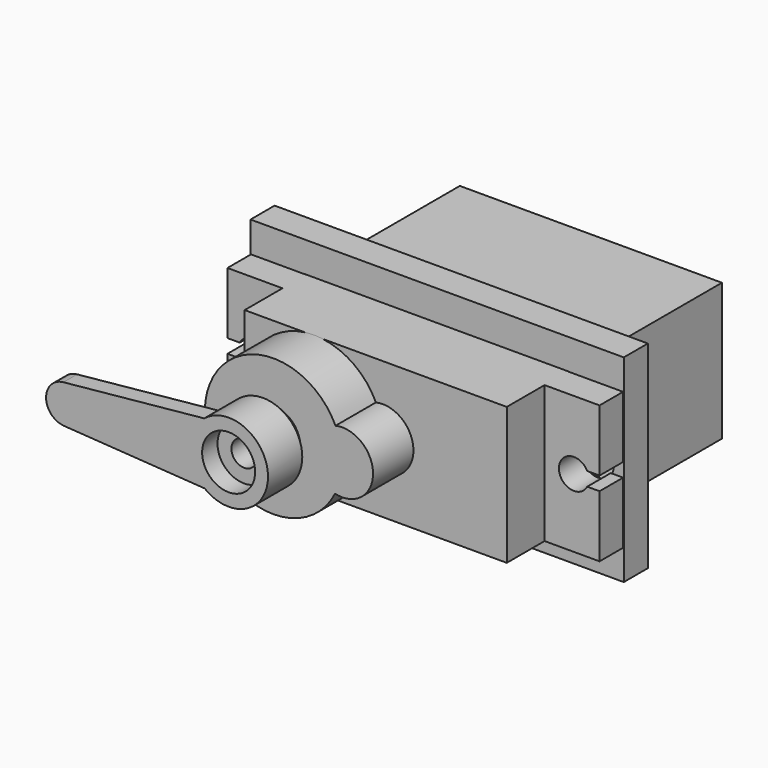
from build123d import *

# Parameters (mm, degrees)
SKETCH001_W             = 32.14
SKETCH001_H             = 11.86
PAD_DEPTH               = 27.59
SKETCH002_W             = 4.75
SKETCH002_H             = 11.86
POCKET_DEPTH            = 8.44
SKETCH_W                = 4.75
SKETCH_H                = 11.86
POCKET001_DEPTH         = 16.61
SKETCH003_W             = 8.06
SKETCH003_H             = 11.86
POCKET002_DEPTH         = 4.36
SKETCH004_R             = 1.295
POCKET003_DEPTH         = 2.54
SKETCH005_R             = 1.295
POCKET004_DEPTH         = 2.54
SKETCH007_W             = 1.066805
SKETCH007_H             = 1.19
POCKET005_DEPTH         = 2.54
SKETCH008_W             = 1.5
SKETCH008_H             = 1.19
POCKET006_DEPTH         = 2.54
SKETCH011_W             = 14.58
SKETCH011_H             = 11.86
POCKET007_DEPTH         = 4.36
SKETCH012_R             = 5.93
PAD001_DEPTH            = 4.36
SKETCH013_R             = 2.66
PAD002_DEPTH            = 4.36
SKETCH014_R             = 2.38
PAD003_DEPTH            = 1.07
SKETCH015_R             = 3.39
PAD004_DEPTH            = 3.7
PAD005_DEPTH            = 1.48
SKETCH017_R             = 2.29
POCKET008_DEPTH         = 1.66
SKETCH018_R             = 1.1
POCKET009_DEPTH         = 1.66
SKETCH019_R             = 0.575
PAD006_DEPTH            = 10
SKETCH023_W             = 32.240891
SKETCH023_H             = 17.088121
PAD007_DEPTH            = 2.6
SKETCH021_R             = 1.28
SKETCH021_W             = 22.85
SKETCH021_H             = 11.84
POCKET010_DEPTH         = 2.6
SKETCH022_W             = 2.01
SKETCH022_H             = 3.5
POCKET011_DEPTH         = 5
BODY001_PLACEMENT_ANGLE = 180


with BuildPart() as body:
    # Sketch001 → Pad (new body)
    with BuildSketch(Plane.XZ):
        with Locations((16.07, 5.93)):
            Rectangle(SKETCH001_W, SKETCH001_H)
    extrude(amount=PAD_DEPTH)

    # Sketch002 (on Face6 of Pad) → Pocket (cut)
    with BuildSketch(Plane.XZ.offset(27.59)):
        with Locations((2.375, 5.93)):
            Rectangle(SKETCH002_W, SKETCH002_H)
        with Locations((29.765, 5.93)):
            Rectangle(SKETCH002_W, SKETCH002_H)
    extrude(amount=-POCKET_DEPTH, mode=Mode.SUBTRACT)

    # Sketch (on Face2 of Pocket) → Pocket001 (cut)
    with BuildSketch(Plane(origin=(0, 0, 0), x_dir=(1, 0, 0), z_dir=(0, 1, 0))):
        with Locations((2.375, -5.93)):
            Rectangle(SKETCH_W, SKETCH_H)
        with Locations((29.765, -5.93)):
            Rectangle(SKETCH_W, SKETCH_H)
    extrude(amount=-POCKET001_DEPTH, mode=Mode.SUBTRACT)

    # Sketch003 (on Face8 of Pocket001) → Pocket002 (cut)
    with BuildSketch(Plane.XZ.offset(27.59)):
        with Locations((23.36, 5.93)):
            Rectangle(SKETCH003_W, SKETCH003_H)
    extrude(amount=-POCKET002_DEPTH, mode=Mode.SUBTRACT)

    # Sketch004 (on Face6 of Pocket002) → Pocket003 (cut)
    with BuildSketch(Plane.XZ.offset(19.15)):
        with Locations((29.925, 5.93)):
            Circle(SKETCH004_R)
    extrude(amount=-POCKET003_DEPTH, mode=Mode.SUBTRACT)

    # Sketch005 (on Face12 of Pocket003) → Pocket004 (cut)
    with BuildSketch(Plane.XZ.offset(19.15)):
        with Locations((2.215, 5.93)):
            Circle(SKETCH005_R)
    extrude(amount=-POCKET004_DEPTH, mode=Mode.SUBTRACT)

    # Sketch007 (on Face6 of Pocket004) → Pocket005 (cut)
    with BuildSketch(Plane.XZ.offset(19.15)):
        with Locations((31.6065975, 5.93)):
            Rectangle(SKETCH007_W, SKETCH007_H)
    extrude(amount=-POCKET005_DEPTH, mode=Mode.SUBTRACT)

    # Sketch008 (on Face12 of Pocket005) → Pocket006 (cut)
    with BuildSketch(Plane.XZ.offset(19.15)):
        with Locations((0.75, 5.93)):
            Rectangle(SKETCH008_W, SKETCH008_H)
    extrude(amount=-POCKET006_DEPTH, mode=Mode.SUBTRACT)

    # Sketch011 (on Face10 of Pocket006) → Pocket007 (cut)
    with BuildSketch(Plane.XZ.offset(27.59)):
        with Locations((12.04, 5.93)):
            Rectangle(SKETCH011_W, SKETCH011_H)
    extrude(amount=-POCKET007_DEPTH, mode=Mode.SUBTRACT)

    # Sketch012 (on Face9 of Pocket007) → Pad001 (join)
    with BuildSketch(Plane.XZ.offset(23.23)):
        with Locations((10.73, 5.98)):
            Circle(SKETCH012_R)
    extrude(amount=PAD001_DEPTH)

    # Sketch013 (on Face9 of Pad001) → Pad002 (join)
    with BuildSketch(Plane.XZ.offset(23.23)):
        with Locations((16.67, 5.93)):
            Circle(SKETCH013_R)
    extrude(amount=PAD002_DEPTH)

    # Sketch014 (on Face24 of Pad002) → Pad003 (join)
    with BuildSketch(Plane.XZ.offset(27.59)):
        with Locations((10.68, 5.93)):
            Circle(SKETCH014_R)
    extrude(amount=PAD003_DEPTH)

    # Sketch015 (on Face28 of Pad003) → Pad004 (join)
    with BuildSketch(Plane.XZ.offset(28.66)):
        with Locations((10.68, 5.93)):
            Circle(SKETCH015_R)
    extrude(amount=PAD004_DEPTH)

    # Sketch016 (on Face3 of Pad004) → Pad005 (join)
    with BuildSketch(Plane.XZ.offset(32.36)):
        with BuildLine():
            Line((8.62, 8.58), (8.62, 3.26))
            Line((-3.5526338926, 4.0654001014), (8.62, 3.26))
            ThreePointArc((-3.6067901761, 7.3671849678), (-5.0997771882, 5.691360238), (-3.5526338926, 4.0654001014))
            Line((8.62, 8.58), (-3.6067901761, 7.3671849678))
        make_face()
    extrude(amount=-PAD005_DEPTH)

    # Sketch017 (on Face34 of Pad005) → Pocket008 (cut)
    with BuildSketch(Plane.XZ.offset(32.36)):
        with Locations((10.668875, 5.93)):
            Circle(SKETCH017_R)
    extrude(amount=-POCKET008_DEPTH, mode=Mode.SUBTRACT)

    # Sketch018 (on Face11 of Pocket008) → Pocket009 (cut)
    with BuildSketch(Plane.XZ.offset(30.7)):
        with Locations((10.68, 5.93)):
            Circle(SKETCH018_R)
    extrude(amount=-POCKET009_DEPTH, mode=Mode.SUBTRACT)

    # Sketch019 (on Face23 of Pocket009) → Pad006 (join)
    with BuildSketch(Plane(origin=(4.75, 0, 0), x_dir=(0, 0, -1), z_dir=(-1, 0, 0))):
        with Locations((-5.93, 4.256319)):
            Circle(SKETCH019_R)
        with Locations((-7.12, 4.256319)):
            Circle(SKETCH019_R)
        with Locations((-4.745135, 4.256319)):
            Circle(SKETCH019_R)
    extrude(amount=PAD006_DEPTH)


with BuildPart() as body001:
    # Sketch023 → Pad007 (new body)
    with BuildSketch(Plane.XZ):
        with Locations((16.1204455, 8.5440605)):
            Rectangle(SKETCH023_W, SKETCH023_H)
    extrude(amount=PAD007_DEPTH)

    # Sketch021 (on Face6 of Pad007) → Pocket010 (cut)
    with BuildSketch(Plane.XZ.offset(2.6)):
        with Locations((30.1059337347, 8.5440605)):
            Circle(SKETCH021_R)
        with Locations((2.1349572653, 8.5440605)):
            Circle(SKETCH021_R)
        with Locations((16.1204455, 8.5440605)):
            Rectangle(SKETCH021_W, SKETCH021_H)
    extrude(amount=-POCKET010_DEPTH, mode=Mode.SUBTRACT)

    # Sketch022 (on Face4 of Pocket010) → Pocket011 (cut)
    with BuildSketch(Plane(origin=(0, 0, 0), x_dir=(1, 0, 0), z_dir=(0, 1, 0))):
        with Locations((27.953742, -8.5440605)):
            Rectangle(SKETCH022_W, SKETCH022_H)
    extrude(amount=-POCKET011_DEPTH, mode=Mode.SUBTRACT)


with BuildPart() as body001_1:
    # Body001 placement: moved
    add(body001.part.moved(Location((32.2, -16.61, -2.59))).rotate(Axis((32.2, -16.61, -2.59), (0, 0, 1)), BODY001_PLACEMENT_ANGLE))


solid = Compound([body.part, body001_1.part])
